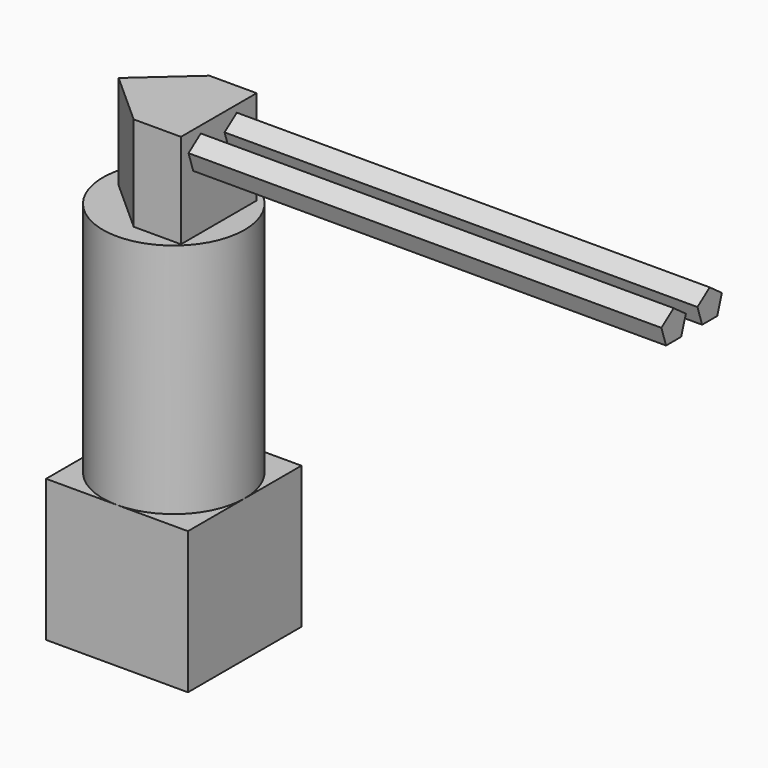
from build123d import *

# Parameters (mm, degrees)
F0_W     = 76.2
F0_H     = 76.2
F1_DEPTH = 76.2
F2_R     = 38.1
F3_DEPTH = 127
F5_DEPTH = 50.8
F7_DEPTH = 25.4
F8_DEPTH = 254


with BuildPart() as f1:
    # F0 (on Top) → F1 (new body)
    with BuildSketch(Plane.XY):
        Rectangle(F0_W, F0_H)
    extrude(amount=F1_DEPTH)

    # F2 (on face) → F3 (join)
    with BuildSketch(Plane.XY.offset(76.2)):
        Circle(F2_R)
    extrude(amount=F3_DEPTH)


with BuildPart() as f5:
    # F4 (on face) → F5 (new body)
    with BuildSketch(Plane.XY.offset(203.2)):
        Polygon((25.4, 23.887334), (0, 23.887334), (-28.398063, -1.512666), (0, -26.912666), (25.4, -26.912666), align=None)
    extrude(amount=F5_DEPTH)

    # F6 (on face) → F7 (cut)
    with BuildSketch(Plane.YZ.offset(25.4)):
        Polygon((-18.693053, 234.555368), (-8.533053, 234.555368), (-5.39344, 244.218102), (-13.613053, 250.19), (-21.832666, 244.218102), align=None)
        Polygon((5.507722, 234.555368), (15.667722, 234.555368), (18.807334, 244.218102), (10.587722, 250.19), (2.368109, 244.218102), align=None)
    extrude(amount=-F7_DEPTH, mode=Mode.SUBTRACT)


with BuildPart() as f8:
    # F6 (on face) → F8 (new body)
    with BuildSketch(Plane.YZ.offset(25.4)):
        Polygon((-18.693053, 234.555368), (-8.533053, 234.555368), (-5.39344, 244.218102), (-13.613053, 250.19), (-21.832666, 244.218102), align=None)
        Polygon((5.507722, 234.555368), (15.667722, 234.555368), (18.807334, 244.218102), (10.587722, 250.19), (2.368109, 244.218102), align=None)
    extrude(amount=F8_DEPTH)


solid = Compound([f1.part, f5.part, f8.part])
